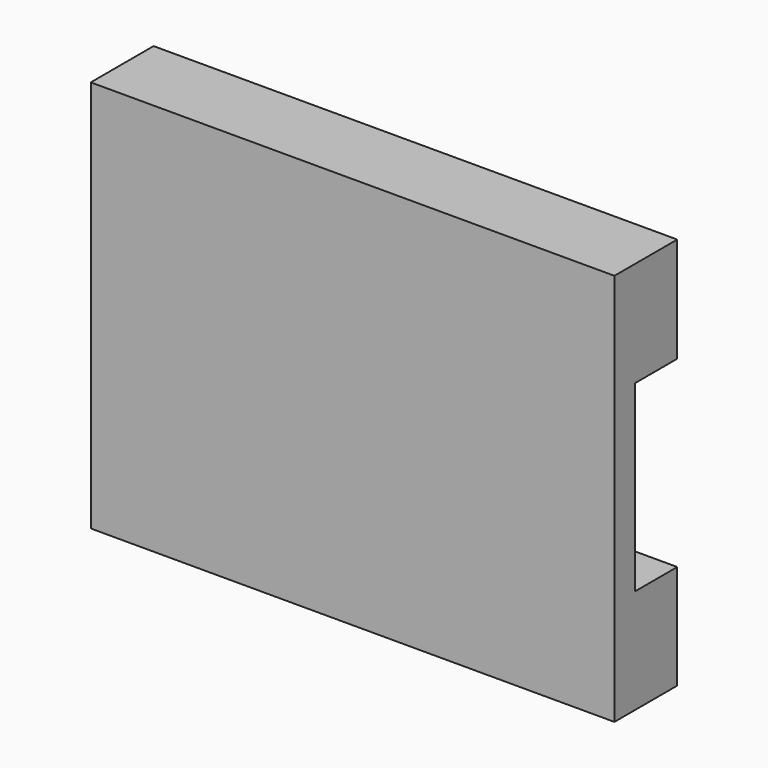
from build123d import *

# Parameters (mm, degrees)
BOX003_W     = 1000
BOX003_H     = 800
BOX003_DEPTH = 700
SKETCH_W     = 2000
SKETCH_H     = 1500
PAD_DEPTH    = 300


with BuildPart() as cube003:
    # Box003 → Box003 (new body)
    with BuildSketch(Plane(origin=(-122, -202, -351), x_dir=(1, 0, 0), z_dir=(0, 0, 1))):
        with Locations((500, 400)):
            Rectangle(BOX003_W, BOX003_H)
    extrude(amount=BOX003_DEPTH)


with BuildPart() as cut:
    # Sketch → Pad (new body)
    with BuildSketch(Plane.XZ):
        with Locations((-300, 0)):
            Rectangle(SKETCH_W, SKETCH_H)
    extrude(amount=PAD_DEPTH)

    # Cut: cut Cube003
    add(cube003.part, mode=Mode.SUBTRACT)


solid = cut.part
